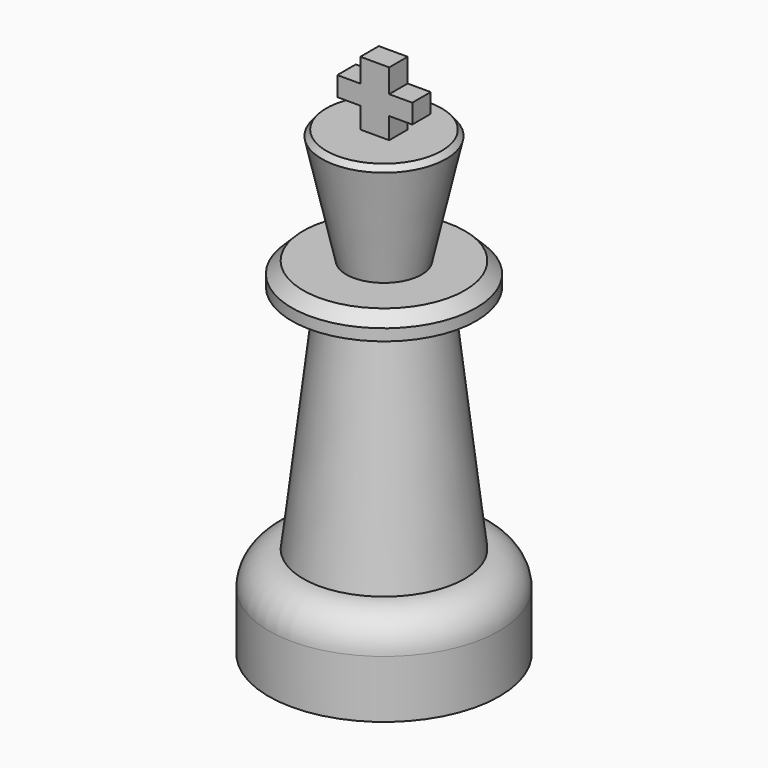
from build123d import *

# Parameters (mm, degrees)
F0_R      = 10
F1_DEPTH  = 5
F2_DEPTH  = 3
F3_R      = 3
F2_FACE_R = 7
F5_R      = 4.6788722556
F7_R      = 8
F7_R_2    = 4.6788722556
F8_DEPTH  = 2
F9_SIZE   = 1
F10_R     = 3.2686938503
F12_R     = 5.5
F14_SIZE  = 0.5
F16_DEPTH = 1
F17_DEPTH = 1
F19_W     = 2
F19_H     = 1.667086035
F20_DEPTH = 2
F18_W     = 2
F18_H     = 1.6840100288
F21_DEPTH = 2


with BuildPart() as f1:
    # F0 (on Top) → F1 (new body)
    with BuildSketch(Plane.XY):
        Circle(F0_R)
    extrude(amount=F1_DEPTH)

    # F2 (add): a face of the model
    f2_faces = [f1.faces().sort_by_distance(p)[0] for p in [
        (0, 0, 5),
    ]]
    extrude(f2_faces, amount=F2_DEPTH)

    # F3
    f3_edges = [f1.edges().sort_by_distance(p)[0] for p in [
        (-10, 0, 8),
    ]]
    fillet(f3_edges, radius=F3_R)

    # F2_face (on face) → F6 section 0
    with BuildSketch(Plane.XY.offset(8)):
        Circle(F2_FACE_R)
    # F5 (on offset) → F6 section 1
    with BuildSketch(Plane.XY.offset(28)):
        Circle(F5_R)
    loft()

    # F7 (on face) → F8 (join)
    with BuildSketch(Plane.XY.offset(28)):
        Circle(F7_R)
        Circle(F7_R_2, mode=Mode.SUBTRACT)
        Circle(F7_R_2)
    extrude(amount=F8_DEPTH)

    # F9
    f9_edges = [f1.edges().sort_by_distance(p)[0] for p in [
        (-8, 0, 30),
    ]]
    chamfer(f9_edges, length=F9_SIZE)

    # F10 (on face) → F13 section 0
    with BuildSketch(Plane.XY.offset(30)):
        Circle(F10_R)
    # F12 (on offset) → F13 section 1
    with BuildSketch(Plane.XY.offset(40)):
        Circle(F12_R)
    loft()

    # F14
    f14_edges = [f1.edges().sort_by_distance(p)[0] for p in [
        (-5.5, 0, 40),
    ]]
    chamfer(f14_edges, length=F14_SIZE)

    # F15 (on Front) → F16 (join)
    with BuildSketch(Plane.XZ):
        Polygon((-1.25, 45.55928049), (-1.25, 39.6955995162), (1.1311062619, 39.6955995162), (1.25, 39.6955995162), (1.25, 45.55928049), align=None)
    extrude(amount=F16_DEPTH)

    # F17 (add): a face of the model
    f17_faces = [f1.faces().sort_by_distance(p)[0] for p in [
        (0, 0, 42.779640245),
    ]]
    extrude(f17_faces, amount=F17_DEPTH)

    # F19 (on face) → F20 (join)
    with BuildSketch(Plane.YZ.offset(1.25)):
        with Locations((0, 42.681613937)):
            Rectangle(F19_W, F19_H)
    extrude(amount=F20_DEPTH)

    # F18 (on face) → F21 (join)
    with BuildSketch(Plane(origin=(-1.25, 0, 0), x_dir=(0, -1, 0), z_dir=(-1, 0, 0))):
        with Locations((0, 42.6668860018)):
            Rectangle(F18_W, F18_H)
    extrude(amount=F21_DEPTH)


solid = f1.part
